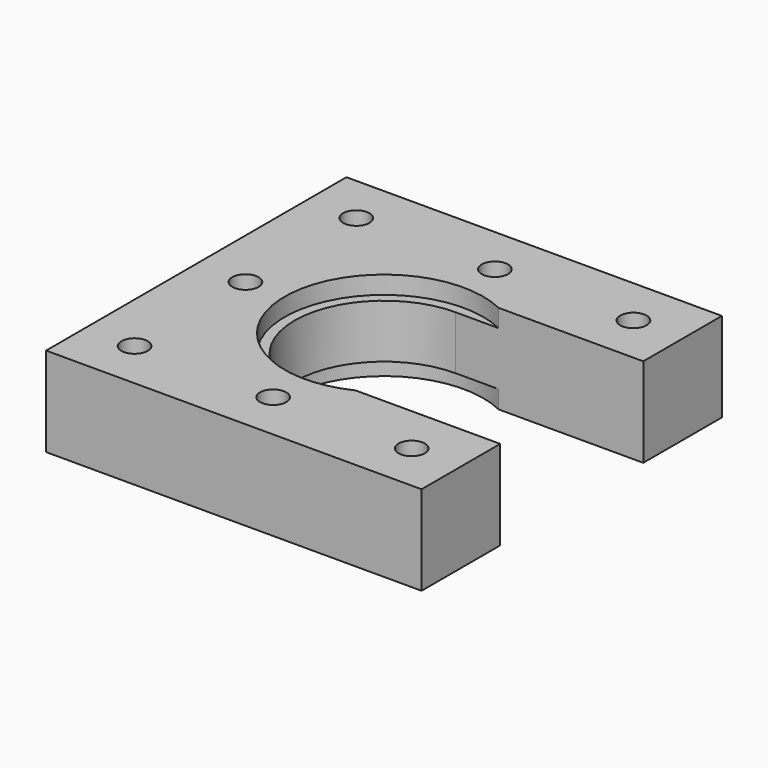
from build123d import *

# Parameters (mm, degrees)
SKETCH004_R     = 1.475
PAD003_DEPTH    = 10
SKETCH009_R     = 2.76
POCKET002_DEPTH = 3
SKETCH014_R     = 11.1
POCKET006_DEPTH = 2
SKETCH042_R     = 11.1
POCKET026_DEPTH = 2


with BuildPart() as part:
    # Sketch004 → Pad003 (new body)
    with BuildSketch(Plane.XY):
        with BuildLine():
            Line((-21, 21), (21, 21))
            Line((21, 21), (21, 10))
            Line((21, 10), (0, 10))
            ThreePointArc((0, 10), (-10, 0), (0, -10))
            Line((21, -10), (0, -10))
            Line((21, -21), (21, -10))
            Line((21, -21), (-21, -21))
            Line((-21, -21), (-21, 21))
        make_face()
        with Locations((-15.5, 15.5)):
            Circle(SKETCH004_R, mode=Mode.SUBTRACT)
        with Locations((15.5, 15.5)):
            Circle(SKETCH004_R, mode=Mode.SUBTRACT)
        with Locations((-15.5, -15.5)):
            Circle(SKETCH004_R, mode=Mode.SUBTRACT)
        with Locations((15.5, -15.5)):
            Circle(SKETCH004_R, mode=Mode.SUBTRACT)
        with Locations((-15.5, 0)):
            Circle(SKETCH004_R, mode=Mode.SUBTRACT)
        with Locations((0, 15.5)):
            Circle(SKETCH004_R, mode=Mode.SUBTRACT)
        with Locations((0, -15.5)):
            Circle(SKETCH004_R, mode=Mode.SUBTRACT)
    extrude(amount=PAD003_DEPTH)

    # Sketch009 → Pocket002 (cut)
    with BuildSketch(Plane.XY):
        with Locations((-15.5, 15.5)):
            Circle(SKETCH009_R)
        with Locations((15.5, 15.5)):
            Circle(SKETCH009_R)
        with Locations((-15.5, -15.5)):
            Circle(SKETCH009_R)
        with Locations((15.5, -15.5)):
            Circle(SKETCH009_R)
        with Locations((-15.5, 0)):
            Circle(SKETCH009_R)
        with Locations((0, 15.5)):
            Circle(SKETCH009_R)
        with Locations((0, -15.5)):
            Circle(SKETCH009_R)
    extrude(amount=POCKET002_DEPTH, mode=Mode.SUBTRACT)

    # Sketch014 (on Face5 of Pocket002) → Pocket006 (cut)
    with BuildSketch(Plane.XY.offset(10)):
        Circle(SKETCH014_R)
    extrude(amount=-POCKET006_DEPTH, mode=Mode.SUBTRACT)

    # Sketch042 → Pocket026 (cut)
    with BuildSketch(Plane.XY):
        Circle(SKETCH042_R)
    extrude(amount=POCKET026_DEPTH, mode=Mode.SUBTRACT)


with BuildPart() as part_1:
    # Body003 placement: moved
    add(part.part.moved(Location((0, 0, -30))))


solid = part_1.part
